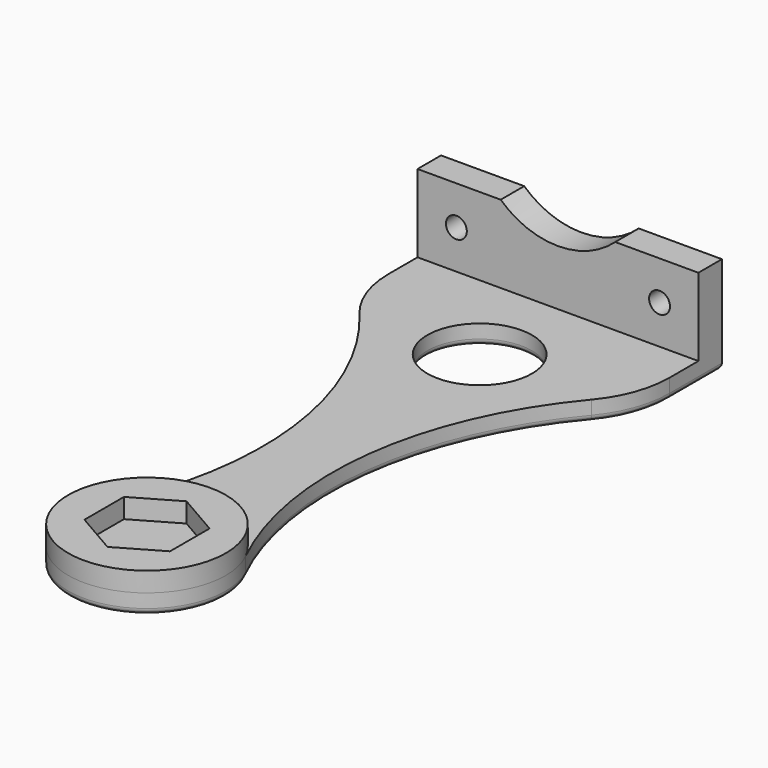
from build123d import *

# Parameters (mm, degrees)
SKETCH002_AS_DRAWN_R                      = 1.6
EXTRUDE001_DEPTH                          = 4.5
EXTRUDE001_ONTO_SKETCH002_ROLL_ANGLE      = 90
EXTRUDE001_ONTO_SKETCH002_PLACEMENT_ANGLE = 180
EXTRUDE_DEPTH                             = 3
SKETCH001_R                               = 12.063289
PAD_DEPTH                                 = 3
SKETCH003_R                               = 8
POCKET_DEPTH                              = 3.001
FILLET_R                                  = 0.9


with BuildPart() as extrude001:
    # Sketch002 as drawn → Extrude001 (new)
    with BuildSketch(Plane.XY):
        with BuildLine():
            Line((-8.765843, 14.9), (-21.5, 14.9))
            Line((-21.5, 14.9), (-21.5, 3))
            Line((-21.5, 3), (21.5, 3))
            Line((21.5, 3), (21.5, 14.9))
            Line((21.5, 14.9), (8.765843, 14.9))
            ThreePointArc((-8.765843, 14.9), (0, 11.5), (8.765843, 14.9))
        make_face()
        with Locations((-15.55, 8.95)):
            Circle(SKETCH002_AS_DRAWN_R, mode=Mode.SUBTRACT)
        with Locations((15.55, 8.95)):
            Circle(SKETCH002_AS_DRAWN_R, mode=Mode.SUBTRACT)
    extrude(amount=-EXTRUDE001_DEPTH)


with BuildPart() as extrude001_1:
    # Extrude001 onto Sketch002 roll: moved
    add(extrude001.part.rotate(Axis((0, 0, 0), (1, 0, 0)), EXTRUDE001_ONTO_SKETCH002_ROLL_ANGLE))


with BuildPart() as extrude001_2:
    # Extrude001 onto Sketch002 placement: moved
    add(extrude001_1.part.moved(Location((0, 83.136711, 0))).rotate(Axis((0, 83.136711, 0), (0, 0, 1)), EXTRUDE001_ONTO_SKETCH002_PLACEMENT_ANGLE))


with BuildPart() as fillet_body:
    # Sketch → Extrude (new body)
    with BuildSketch(Plane.XY):
        with BuildLine():
            Line((-21.5, 83.136711), (21.5, 83.136711))
            Line((21.5, 83.136711), (21.5, 73.136711))
            ThreePointArc((17.748453, 62.850809), (20.531425, 67.662881), (21.5, 73.136711))
            ThreePointArc((17.748453, 62.850809), (5.730319, 35.123847), (10.819042, 5.335848))
            ThreePointArc((-10.819042, 5.335848), (0, -12.063289), (10.819042, 5.335848))
            ThreePointArc((-10.819042, 5.335848), (-5.733751, 35.124931), (-17.75562, 62.850809))
            ThreePointArc((-21.5, 73.136711), (-20.534792, 67.663591), (-17.75562, 62.850809))
            Line((-21.5, 83.136711), (-21.5, 73.136711))
        make_face()
    extrude(amount=EXTRUDE_DEPTH)

    # Sketch001 → Pad (new body)
    with BuildSketch(Plane.XY.offset(3)):
        Circle(SKETCH001_R)
        Polygon((0, 7.563289), (-6.55, 3.781644), (-6.55, -3.781644), (0, -7.563289), (6.55, -3.781644), (6.55, 3.781644), align=None, mode=Mode.SUBTRACT)
    extrude(amount=PAD_DEPTH)

    # Fusion: union Extrude001
    add(extrude001_2.part)

    # Sketch003 → Pocket (cut, through all)
    with BuildSketch(Plane.XY.offset(3)):
        with Locations((-0.002934, 63.657442)):
            Circle(SKETCH003_R)
    extrude(amount=-POCKET_DEPTH, mode=Mode.SUBTRACT)

    # Fillet
    fillet_edges = [fillet_body.edges().sort_by_distance(p)[0] for p in [
        (-21.5, 78.136711, 0),
        (0, 83.136711, 0),
        (-20.534792, 67.663591, 0),
        (21.5, 78.136711, 0),
        (-5.733751, 35.124931, 0),
        (20.531425, 67.662881, 0),
        (0, -12.063289, 0),
        (5.730319, 35.123847, 0),
        (-8.002934, 63.657442, 0),
    ]]
    fillet(fillet_edges, radius=FILLET_R)


solid = fillet_body.part
